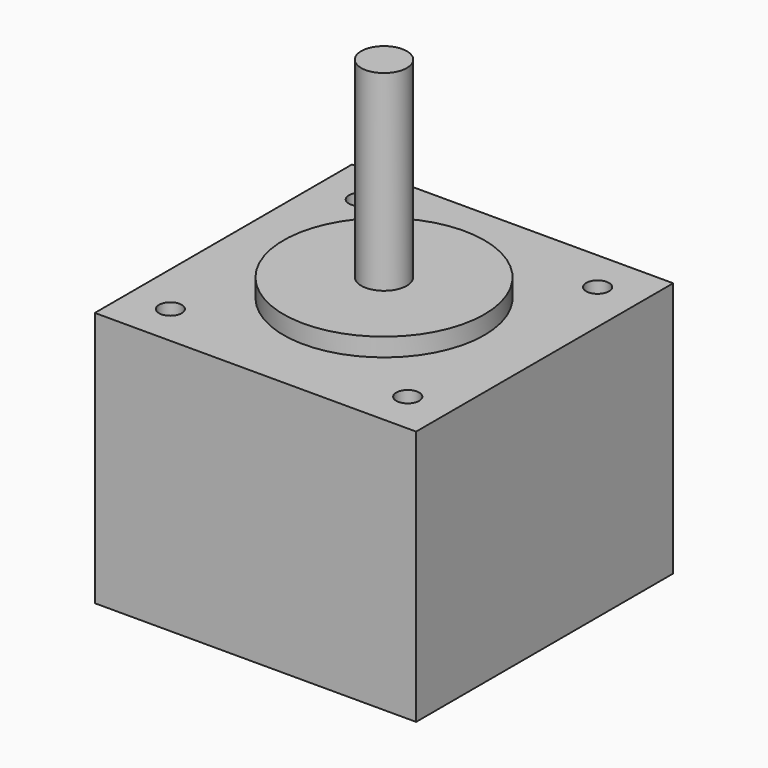
from build123d import *

# Parameters (mm, degrees)
F0_W     = 35.2
F0_H     = 35.2
F1_DEPTH = 28
F2_R     = 11
F3_DEPTH = 2
F4_R     = 2.5
F5_DEPTH = 21
F7_D     = 2.5


with BuildPart() as f1:
    # F0 (on Top) → F1 (new body)
    with BuildSketch(Plane.XY):
        Rectangle(F0_W, F0_H)
    extrude(amount=F1_DEPTH)

    # F2 (on face) → F3 (join)
    with BuildSketch(Plane.XY.offset(28)):
        Circle(F2_R)
    extrude(amount=F3_DEPTH)

    # F4 (on face) → F5 (join)
    with BuildSketch(Plane.XY.offset(30)):
        Circle(F4_R)
    extrude(amount=F5_DEPTH)

    # F7 (through all)
    with Locations(Plane.XY.offset(28)):
        with Locations((13, 13), (13, -13), (-13, -13), (-13, 13)):
            Hole(F7_D / 2)


solid = f1.part
